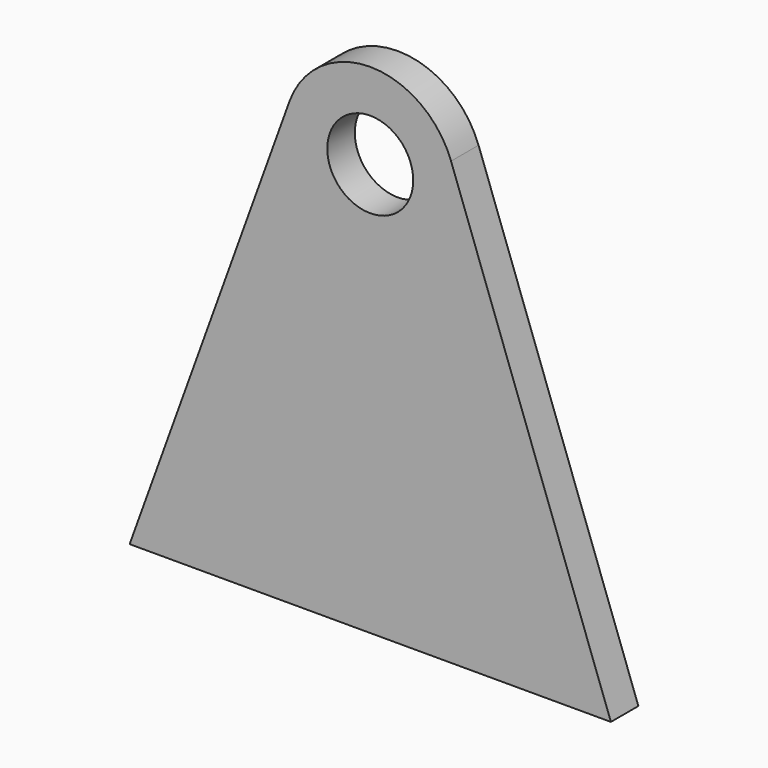
from build123d import *

# Parameters (mm, degrees)
F0_R     = 25
F1_DEPTH = 20


with BuildPart() as f1:
    # F0 (on Front) → F1 (new body)
    with BuildSketch(Plane.XZ):
        with BuildLine():
            ThreePointArc((47.017566, 205.35291), (49.248748, 196.977526), (50, 188.342663))
            ThreePointArc((50, 188.342663), (-8.634863, 139.093915), (-47.017566, 205.35291))
            Line((-47.017566, 205.35291), (-140, -51.657337))
            Line((-140, -51.657337), (140, -51.657337))
            Line((140, -51.657337), (47.017566, 205.35291))
        make_face()
        with BuildLine():
            ThreePointArc((-47.017566, 205.35291), (-8.634863, 139.093915), (50, 188.342663))
            ThreePointArc((50, 188.342663), (49.248748, 196.977526), (47.017566, 205.35291))
            ThreePointArc((47.017566, 205.35291), (0, 238.342663), (-47.017566, 205.35291))
        make_face()
        with Locations((0, 188.342663)):
            Circle(F0_R, mode=Mode.SUBTRACT)
    extrude(amount=F1_DEPTH)


solid = f1.part
